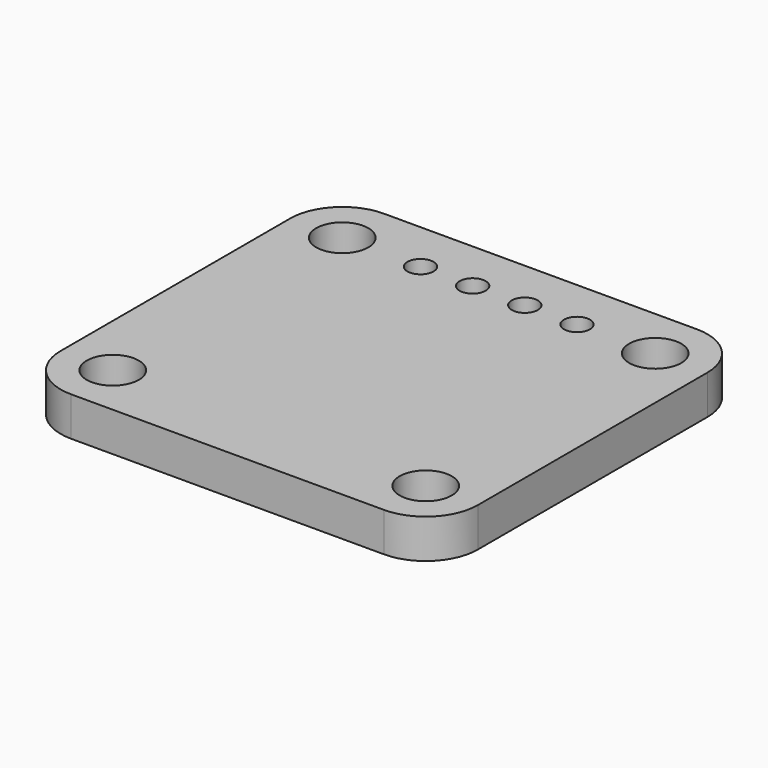
from build123d import *

# Parameters (mm, degrees)
F0_R     = 1.27
F0_R_2   = 0.635
F1_DEPTH = 1.905


with BuildPart() as f1:
    # F0 (on Top) → F1 (new body)
    with BuildSketch(Plane.XY):
        with BuildLine():
            Line((-7.62, -9.525), (7.62, -9.525))
            ThreePointArc((7.62, -9.525), (9.416051, -8.781051), (10.16, -6.985))
            Line((10.16, -6.985), (10.16, 6.985))
            ThreePointArc((10.16, 6.985), (9.416051, 8.781051), (7.62, 9.525))
            Line((7.62, 9.525), (-7.62, 9.525))
            ThreePointArc((-7.62, 9.525), (-9.416051, 8.781051), (-10.16, 6.985))
            Line((-10.16, 6.985), (-10.16, -6.985))
            ThreePointArc((-10.16, -6.985), (-9.416051, -8.781051), (-7.62, -9.525))
        make_face()
        with Locations((-7.62, -6.985)):
            Circle(F0_R, mode=Mode.SUBTRACT)
        with Locations((7.62, -6.985)):
            Circle(F0_R, mode=Mode.SUBTRACT)
        with Locations((-7.62, 6.985)):
            Circle(F0_R, mode=Mode.SUBTRACT)
        with Locations((-3.81, 6.985)):
            Circle(F0_R_2, mode=Mode.SUBTRACT)
        with Locations((-1.27, 6.985)):
            Circle(F0_R_2, mode=Mode.SUBTRACT)
        with Locations((1.27, 6.985)):
            Circle(F0_R_2, mode=Mode.SUBTRACT)
        with Locations((3.81, 6.985)):
            Circle(F0_R_2, mode=Mode.SUBTRACT)
        with Locations((7.62, 6.985)):
            Circle(F0_R, mode=Mode.SUBTRACT)
    extrude(amount=F1_DEPTH)


solid = f1.part
